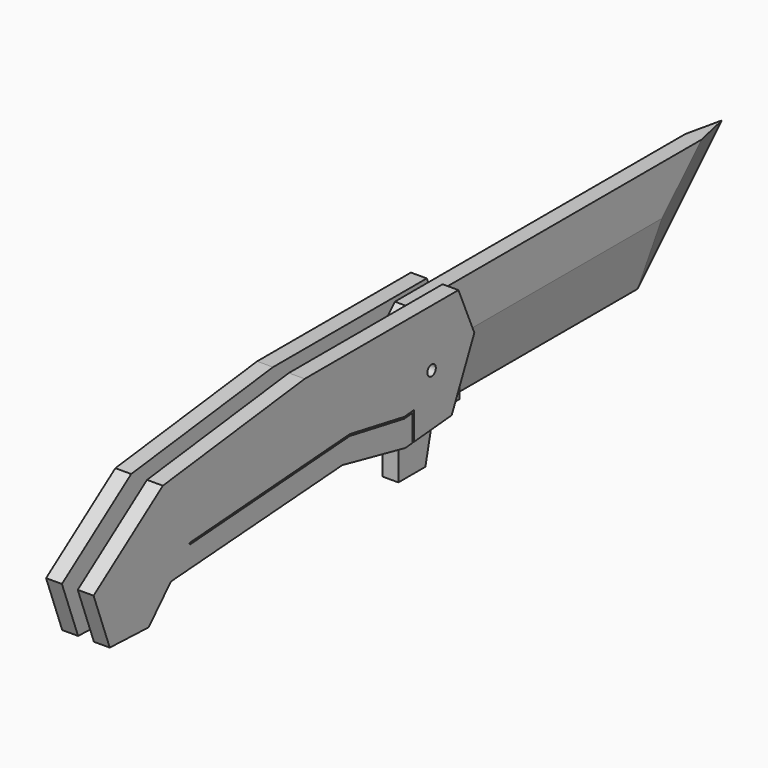
from build123d import *

# Parameters (mm, degrees)
F0_W      = 101.6
F0_H      = 31.75
F1_DEPTH  = 2.38125
F3_DEPTH  = 101.601
F7_R      = 1.5875
F8_DEPTH  = 2.38125
F9_SIZE   = 10.16
F11_R     = 1.5875
F12_DEPTH = 4.7625
F15_DEPTH = 4.7625


with BuildPart() as f1:
    # F0 (on Right) → F1 (new body, symmetric)
    with BuildSketch(Plane.YZ):
        Rectangle(F0_W, F0_H)
    extrude(amount=F1_DEPTH, both=True)

    # F2 (on face) → F3 (cut, through all)
    with BuildSketch(Plane(origin=(0, 50.8, 0), x_dir=(-1, 0, 0), z_dir=(0, 1, 0))):
        Polygon((2.38125, 1.0684741514), (0, -15.875), (-2.38125, 1.0684741514), (-18.4869468212, 1.0684741514), (-18.4869468212, -23.6229002476), (17.5397191197, -23.6229002476), (17.5397191197, 1.0684741514), align=None)
    extrude(amount=-F3_DEPTH, mode=Mode.SUBTRACT)

    # F6: sweep along a path in F4
    with BuildLine(Plane.YZ) as f6_path:
        Line((50.8, 15.875), (19.05, -15.875))
    # F5 (on face) → F6 (sweep, cut)
    with BuildSketch(Plane.XY.offset(15.875)):
        Polygon((-2.38125, 40.0588753757), (0, 50.8), (2.38125, 40.0588753757), (25.2857971936, 40.0588753757), (21.9698956102, 103.4185513854), (-23.8018085353, 103.4185513854), (-27.6726558805, 37.965990603), align=None)
    sweep(path=f6_path.line, mode=Mode.SUBTRACT)

    # F7 (on Right) → F8 (join, symmetric)
    with BuildSketch(Plane.YZ):
        Polygon((-52.3875, -15.875), (-50.8, -15.875), (-50.8, 15.875), (-79.375, 15.875), (-79.375, -3.175), (-73.8466912246, -3.175), (-73.8466912246, -28.575), (-63.6866912246, -28.575), (-60.0366964936, -12.7), (-53.6866964936, -12.7), align=None)
        with Locations((-67.31, 0)):
            Circle(F7_R, mode=Mode.SUBTRACT)
    extrude(amount=F8_DEPTH, both=True)

    # F9
    f9_edges = [f1.edges().sort_by_distance(p)[0] for p in [
        (0, -79.375, 15.875),
    ]]
    chamfer(f9_edges, length=F9_SIZE)


with BuildPart() as f12:
    # F11 (on face) → F12 (new body)
    with BuildSketch(Plane.YZ.offset(2.38125)):
        Polygon((-57.2196619652, 17.1623267233), (-115.0466650724, 17.1623267233), (-168.3660000563, 10.5353360996), (-194.4140195847, -7.995388296), (-188.3361786604, -24.2313144845), (-173.7032628157, -24.8130114187), (-165.3329879045, -16.0735603422), (-100.8694320917, -11.453111656), (-77.1741867065, -16.5441259742), (-59.7448249552, -14.9574161484), (-51.22936517, 3.4124411177), align=None)
        with Locations((-67.2986954451, 0)):
            Circle(F11_R, mode=Mode.SUBTRACT)
    extrude(amount=F12_DEPTH)


with BuildPart() as f13_1:
    # F13: instance of F12
    add(f12.part.mirror(Plane.YZ))


with BuildPart() as f12_1:
    add(f12.part)

    # F14 (on face) → F15 (cut, through all)
    with BuildSketch(Plane.YZ.offset(7.14375)):
        Polygon((-74.492054025, -8.3624537354), (-74.492054025, -16.2999537354), (-73.984054025, -16.2537071428), (-73.984054025, -7.8061064201), (-77.5342935257, -8.1293081517), (-98.0292251983, -4.3739453675), (-158.280459913, -8.6924744149), (-158.2270260661, -9.1979477418), (-98.0572913906, -4.8852602391), (-77.5574707394, -8.6415188492), align=None)
    extrude(amount=-F15_DEPTH, mode=Mode.SUBTRACT)


solid = Compound([f1.part, f13_1.part, f12_1.part])
